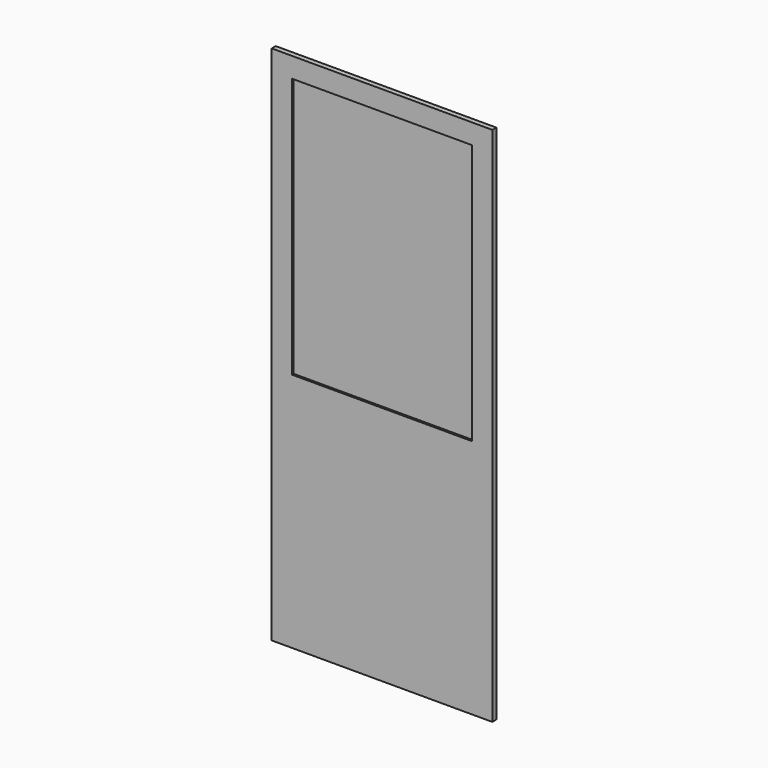
from build123d import *

# Parameters (mm, degrees)
F0_W          = 1100
F0_H          = 2600
F1_DEPTH      = 12.5
F2_W          = 900
F2_H          = 1300
F3_DEPTH      = 12.501
F3_DEPTH_BACK = 12.501
F4_W          = 900
F4_H          = 1300
F5_DEPTH      = 2.5


with BuildPart() as f1:
    # F0 (on Front) → F1 (new body, symmetric)
    with BuildSketch(Plane.XZ):
        with Locations((0, 1300)):
            Rectangle(F0_W, F0_H)
    extrude(amount=F1_DEPTH, both=True)

    # F2 (on Front) → F3 (cut, two sides)
    with BuildSketch(Plane.XZ) as f3_sk:
        with Locations((0, 1850)):
            Rectangle(F2_W, F2_H)
    extrude(amount=-F3_DEPTH, mode=Mode.SUBTRACT)
    extrude(f3_sk.sketch, amount=F3_DEPTH_BACK, mode=Mode.SUBTRACT)


with BuildPart() as f5:
    # F4 (on Front) → F5 (new body, symmetric)
    with BuildSketch(Plane.XZ):
        with Locations((0, 1850)):
            Rectangle(F4_W, F4_H)
    extrude(amount=F5_DEPTH, both=True)


solid = Compound([f1.part, f5.part])
